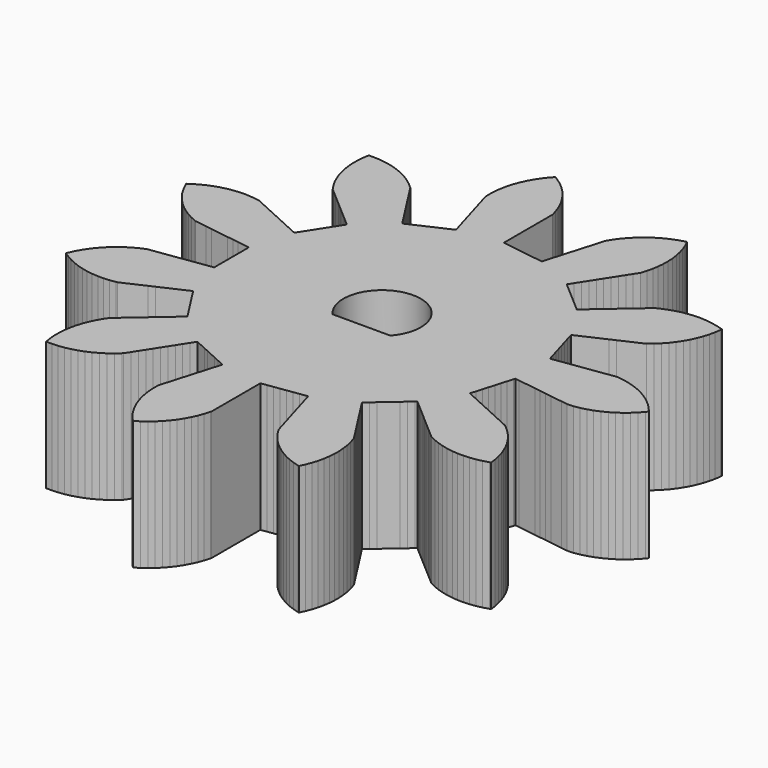
from build123d import *

# Parameters (mm, degrees)
F1_DEPTH = 5


with BuildPart() as f1:
    # F0 (on Top) → F1 (new body)
    with BuildSketch(Plane.XY):
        Polygon((4.187361, -0.908174), (4.207738, -0.838776), (4.363219, -0.861131), (4.59644, -0.894663), (4.829661, -0.928195), (5.062882, -0.961727), (5.296104, -0.995259), (5.529325, -1.028791), (5.762546, -1.062324), (5.995767, -1.095856), (6.228988, -1.129388), (6.46221, -1.16292), (6.708097, -1.155412), (6.93373, -1.114469), (7.155641, -1.056657), (7.362823, -0.989395), (7.574061, -0.900147), (7.77798, -0.795249), (7.965462, -0.684348), (8.152098, -0.551105), (8.328173, -0.40419), (8.486897, -0.255007), (8.639914, -0.084207), (8.709102, 0), (8.560846, 0.174947), (8.39984, 0.338237), (8.238012, 0.484048), (8.055115, 0.622378), (7.862324, 0.746548), (7.67255, 0.85348), (7.463849, 0.94851), (7.248587, 1.027559), (7.040035, 1.090447), (6.815615, 1.137586), (6.588283, 1.167696), (6.53995, 1.174097), (6.306729, 1.140565), (6.073508, 1.107033), (5.840286, 1.073501), (5.607065, 1.039969), (5.373844, 1.006437), (5.140623, 0.972905), (4.907402, 0.939372), (4.67418, 0.90584), (4.440959, 0.872308), (4.207738, 0.838776), (4.143132, 1.058805), (4.078526, 1.278833), (4.013919, 1.498862), (3.949313, 1.718891), (3.884707, 1.938919), (3.820101, 2.158948), (3.755494, 2.378977), (3.735117, 2.448375), (3.949444, 2.546255), (4.163771, 2.644135), (4.378098, 2.742015), (4.592425, 2.839895), (4.806752, 2.937775), (5.021079, 3.035654), (5.235406, 3.133534), (5.449733, 3.231414), (5.66406, 3.329294), (5.878387, 3.427174), (6.054421, 3.574138), (6.218893, 3.733937), (6.365891, 3.894686), (6.505565, 4.076559), (6.631151, 4.268431), (6.739478, 4.457412), (6.836043, 4.665407), (6.916676, 4.880081), (6.981098, 5.088164), (7.029888, 5.312231), (7.061672, 5.539336), (7.068429, 5.58762), (6.849124, 5.654641), (6.625396, 5.704963), (6.410427, 5.740136), (6.181777, 5.757626), (6.072853, 5.761288), (5.843666, 5.753542), (5.615713, 5.728564), (5.40096, 5.692099), (5.179002, 5.634468), (4.962012, 5.560292), (4.760414, 5.477789), (4.608857, 5.402601), (4.430788, 5.248303), (4.252718, 5.094005), (4.074649, 4.939707), (3.89658, 4.785409), (3.71851, 4.631111), (3.540441, 4.476814), (3.362372, 4.322516), (3.184303, 4.168218), (3.006233, 4.01392), (2.828164, 3.859622), (2.654857, 4.009793), (2.481551, 4.159964), (2.308244, 4.310135), (2.134937, 4.460306), (1.96163, 4.610478), (1.788324, 4.760649), (1.615017, 4.91082), (1.560355, 4.958185), (1.68774, 5.1564), (1.815126, 5.354616), (1.942511, 5.552832), (2.069897, 5.751047), (2.197282, 5.949263), (2.324668, 6.147479), (2.452053, 6.345695), (2.579439, 6.54391), (2.706824, 6.742126), (2.83421, 6.940342), (2.902845, 7.159147), (2.954813, 7.382499), (2.991568, 7.597203), (3.010741, 7.825717), (3.012657, 8.055027), (3.001617, 8.272574), (2.970402, 8.499758), (2.922173, 8.723946), (2.86387, 8.933826), (2.783775, 9.148701), (2.687731, 9.356937), (2.667312, 9.40121), (2.446586, 9.339026), (2.231168, 9.260404), (2.031308, 9.173772), (1.829501, 9.064868), (1.636464, 8.94108), (1.460359, 8.812877), (1.28722, 8.662513), (1.125891, 8.499542), (0.98205, 8.335961), (0.845944, 8.151403), (0.724118, 7.957123), (0.698217, 7.915817), (0.631835, 7.689742), (0.565453, 7.463667), (0.499072, 7.237591), (0.43269, 7.011516), (0.366308, 6.785441), (0.299927, 6.559366), (0.233545, 6.333291), (0.167163, 6.107215), (0.100782, 5.88114), (0.0344, 5.655065), (-0.192584, 5.6877), (-0.419567, 5.720336), (-0.646551, 5.752971), (-0.873534, 5.785606), (-1.100518, 5.818242), (-1.327501, 5.850877), (-1.554485, 5.883512), (-1.626077, 5.893806), (-1.626077, 6.129425), (-1.626077, 6.365044), (-1.626077, 6.600664), (-1.626077, 6.836283), (-1.626077, 7.071903), (-1.626077, 7.307522), (-1.626077, 7.543142), (-1.626077, 7.778761), (-1.626077, 8.014381), (-1.626077, 8.25), (-1.686633, 8.471178), (-1.763667, 8.687169), (-1.848824, 8.887661), (-1.956239, 9.090266), (-2.078602, 9.284209), (-2.205504, 9.461253), (-2.354589, 9.635495), (-2.516367, 9.79802), (-2.678884, 9.943062), (-2.862435, 10.080523), (-3.055813, 10.203777), (-3.096926, 10.229982), (-3.248994, 10.058337), (-3.387708, 9.875731), (-3.509004, 9.6948), (-3.619898, 9.494078), (-3.715366, 9.285578), (-3.794202, 9.082517), (-3.858564, 8.862417), (-3.906174, 8.638096), (-3.938742, 8.422717), (-3.953462, 8.193872), (-3.950913, 7.964569), (-3.950371, 7.915817), (-3.883989, 7.689742), (-3.817607, 7.463667), (-3.751226, 7.237591), (-3.684844, 7.011516), (-3.618462, 6.785441), (-3.552081, 6.559366), (-3.485699, 6.333291), (-3.419317, 6.107215), (-3.352936, 5.88114), (-3.286554, 5.655065), (-3.495149, 5.559803), (-3.703743, 5.464541), (-3.912338, 5.369279), (-4.120933, 5.274017), (-4.329527, 5.178755), (-4.538122, 5.083493), (-4.746717, 4.988231), (-4.812509, 4.958185), (-4.939894, 5.1564), (-5.06728, 5.354616), (-5.194665, 5.552832), (-5.322051, 5.751047), (-5.449436, 5.949263), (-5.576822, 6.147479), (-5.704207, 6.345695), (-5.831593, 6.54391), (-5.958978, 6.742126), (-6.086364, 6.940342), (-6.256884, 7.093669), (-6.438463, 7.233725), (-6.618496, 7.35635), (-6.818396, 7.468719), (-7.026187, 7.56572), (-7.228662, 7.64605), (-7.448282, 7.712031), (-7.672246, 7.761292), (-7.88738, 7.795445), (-8.11611, 7.81185), (-8.22505, 7.814996), (-8.39418, 7.810807), (-8.429309, 7.584196), (-8.447279, 7.355584), (-8.451501, 7.137797), (-8.436272, 6.908986), (-8.403861, 6.68197), (-8.3604, 6.468523), (-8.295549, 6.248566), (-8.214324, 6.034115), (-8.125279, 5.83532), (-8.013939, 5.634845), (-7.887824, 5.443321), (-7.861011, 5.402601), (-7.682942, 5.248303), (-7.504872, 5.094005), (-7.326803, 4.939707), (-7.148734, 4.785409), (-6.970664, 4.631111), (-6.792595, 4.476814), (-6.614526, 4.322516), (-6.436457, 4.168218), (-6.258387, 4.01392), (-6.080318, 3.859622), (-6.204297, 3.666707), (-6.328275, 3.473793), (-6.452253, 3.280879), (-6.576232, 3.087965), (-6.70021, 2.89505), (-6.824189, 2.702136), (-6.948167, 2.509222), (-6.987271, 2.448375), (-7.201598, 2.546255), (-7.415925, 2.644135), (-7.630252, 2.742015), (-7.844579, 2.839895), (-8.058906, 2.937775), (-8.273233, 3.035654), (-8.48756, 3.133534), (-8.701887, 3.231414), (-8.916214, 3.329294), (-9.130541, 3.427174), (-9.356887, 3.463971), (-9.585361, 3.483624), (-9.718512, 3.489791), (-9.947716, 3.482554), (-10.175724, 3.458084), (-10.390558, 3.422096), (-10.612643, 3.364959), (-10.829797, 3.291266), (-11.031579, 3.209211), (-11.235816, 3.104934), (-11.431624, 2.985578), (-11.542609, 2.911756), (-11.449646, 2.702127), (-11.341166, 2.500091), (-11.226973, 2.314595), (-11.090457, 2.13034), (-10.940458, 1.956884), (-10.788497, 1.800818), (-10.615024, 1.65084), (-10.430752, 1.514346), (-10.248365, 1.395249), (-10.046316, 1.286794), (-9.836675, 1.193857), (-9.792104, 1.174097), (-9.558883, 1.140565), (-9.325662, 1.107033), (-9.09244, 1.073501), (-8.859219, 1.039969), (-8.625998, 1.006437), (-8.392777, 0.972905), (-8.159556, 0.939372), (-7.926334, 0.90584), (-7.693113, 0.872308), (-7.459892, 0.838776), (-7.459892, 0.609458), (-7.459892, 0.380141), (-7.459892, 0.150823), (-7.459892, -0.078495), (-7.459892, -0.307812), (-7.459892, -0.53713), (-7.459892, -0.766448), (-7.459892, -0.838776), (-7.693113, -0.872308), (-7.926334, -0.90584), (-8.159556, -0.939372), (-8.392777, -0.972905), (-8.625998, -1.006437), (-8.859219, -1.039969), (-9.09244, -1.073501), (-9.325662, -1.107033), (-9.558883, -1.140565), (-9.792104, -1.174097), (-10.002412, -1.265514), (-10.205242, -1.372503), (-10.391574, -1.485326), (-10.57683, -1.620481), (-10.751385, -1.769199), (-10.908567, -1.920006), (-11.059819, -2.092371), (-11.197666, -2.275632), (-11.318102, -2.457136), (-11.428043, -2.658381), (-11.522522, -2.867332), (-11.542609, -2.911756), (-11.351069, -3.037848), (-11.150581, -3.149164), (-10.954229, -3.243475), (-10.739769, -3.324675), (-10.519804, -3.389499), (-10.307591, -3.438634), (-10.080571, -3.471017), (-9.851758, -3.486218), (-9.633936, -3.487803), (-9.405326, -3.469805), (-9.178719, -3.434648), (-9.130541, -3.427174), (-8.916214, -3.329294), (-8.701887, -3.231414), (-8.48756, -3.133534), (-8.273233, -3.035654), (-8.058906, -2.937775), (-7.844579, -2.839895), (-7.630252, -2.742015), (-7.415925, -2.644135), (-7.201598, -2.546255), (-6.987271, -2.448375), (-6.863293, -2.64129), (-6.739314, -2.834204), (-6.615336, -3.027118), (-6.491357, -3.220033), (-6.367379, -3.412947), (-6.2434, -3.605861), (-6.119422, -3.798775), (-6.080318, -3.859622), (-6.258387, -4.01392), (-6.436457, -4.168218), (-6.614526, -4.322516), (-6.792595, -4.476814), (-6.970664, -4.631111), (-7.148734, -4.785409), (-7.326803, -4.939707), (-7.504872, -5.094005), (-7.682942, -5.248303), (-7.861011, -5.402601), (-7.98851, -5.593207), (-8.101299, -5.79287), (-8.197055, -5.988521), (-8.279831, -6.202378), (-8.346273, -6.421859), (-8.39697, -6.633705), (-8.431025, -6.86048), (-8.447911, -7.089175), (-8.4511, -7.306979), (-8.434786, -7.535716), (-8.4013, -7.762575), (-8.39418, -7.810807), (-8.164876, -7.813329), (-7.936033, -7.798581), (-7.719863, -7.771765), (-7.495548, -7.724128), (-7.275455, -7.65974), (-7.070365, -7.586344), (-6.861877, -7.49085), (-6.661168, -7.379932), (-6.477069, -7.263502), (-6.29448, -7.124765), (-6.122853, -6.972677), (-6.086364, -6.940342), (-5.958978, -6.742126), (-5.831593, -6.54391), (-5.704207, -6.345695), (-5.576822, -6.147479), (-5.449436, -5.949263), (-5.322051, -5.751047), (-5.194665, -5.552832), (-5.06728, -5.354616), (-4.939894, -5.1564), (-4.812509, -4.958185), (-4.603914, -5.053447), (-4.395319, -5.148709), (-4.186725, -5.243971), (-3.97813, -5.339233), (-3.769535, -5.434495), (-3.560941, -5.529757), (-3.352346, -5.625019), (-3.286554, -5.655065), (-3.352936, -5.88114), (-3.419317, -6.107215), (-3.485699, -6.333291), (-3.552081, -6.559366), (-3.618462, -6.785441), (-3.684844, -7.011516), (-3.751226, -7.237591), (-3.817607, -7.463667), (-3.883989, -7.689742), (-3.950371, -7.915817), (-3.954581, -8.145096), (-3.941519, -8.374041), (-3.916296, -8.590404), (-3.870312, -8.815063), (-3.807547, -9.035624), (-3.735663, -9.241249), (-3.641708, -9.450435), (-3.532271, -9.651955), (-3.4172, -9.836908), (-3.279812, -10.020513), (-3.128992, -10.193256), (-3.096926, -10.229982), (-2.902661, -10.108132), (-2.718119, -9.972004), (-2.550762, -9.832574), (-2.387811, -9.671225), (-2.237468, -9.498067), (-2.104617, -9.325443), (-1.980853, -9.132391), (-1.871973, -8.93057), (-1.780045, -8.733091), (-1.701448, -8.517663), (-1.639292, -8.29693), (-1.626077, -8.25), (-1.626077, -8.014381), (-1.626077, -7.778761), (-1.626077, -7.543142), (-1.626077, -7.307522), (-1.626077, -7.071903), (-1.626077, -6.836283), (-1.626077, -6.600664), (-1.626077, -6.365044), (-1.626077, -6.129425), (-1.626077, -5.893806), (-1.399093, -5.86117), (-1.17211, -5.828535), (-0.945126, -5.7959), (-0.718143, -5.763264), (-0.491159, -5.730629), (-0.264176, -5.697994), (-0.037192, -5.665358), (0.0344, -5.655065), (0.100782, -5.88114), (0.167163, -6.107215), (0.233545, -6.333291), (0.299927, -6.559366), (0.366308, -6.785441), (0.43269, -7.011516), (0.499072, -7.237591), (0.565453, -7.463667), (0.631835, -7.689742), (0.698217, -7.915817), (0.818632, -8.110975), (0.953398, -8.296514), (1.091591, -8.464893), (1.251735, -8.629029), (1.423781, -8.780642), (1.595422, -8.914762), (1.787558, -9.039944), (1.988571, -9.150308), (2.185368, -9.243688), (2.400211, -9.323869), (2.620481, -9.38765), (2.667312, -9.40121), (2.764861, -9.193675), (2.846511, -8.979386), (2.911919, -8.77161), (2.961771, -8.547777), (2.994631, -8.320826), (3.013065, -8.10378), (3.01281, -7.874462), (2.995293, -7.645815), (2.965862, -7.429985), (2.915513, -7.206263), (2.848465, -6.986966), (2.83421, -6.940342), (2.706824, -6.742126), (2.579439, -6.54391), (2.452053, -6.345695), (2.324668, -6.147479), (2.197282, -5.949263), (2.069897, -5.751047), (1.942511, -5.552832), (1.815126, -5.354616), (1.68774, -5.1564), (1.560355, -4.958185), (1.733662, -4.808014), (1.906968, -4.657842), (2.080275, -4.507671), (2.253582, -4.3575), (2.426889, -4.207329), (2.600195, -4.057158), (2.773502, -3.906987), (2.828164, -3.859622), (3.006233, -4.01392), (3.184303, -4.168218), (3.362372, -4.322516), (3.540441, -4.476814), (3.71851, -4.631111), (3.89658, -4.785409), (4.074649, -4.939707), (4.252718, -5.094005), (4.430788, -5.248303), (4.608857, -5.402601), (4.815668, -5.501677), (5.02935, -5.584902), (5.236638, -5.651839), (5.460098, -5.703338), (5.686801, -5.737869), (5.903705, -5.757901), (6.133018, -5.759335), (6.361789, -5.743502), (6.577829, -5.715662), (6.801916, -5.666962), (7.021701, -5.601531), (7.068429, -5.58762), (7.038291, -5.360291), (6.991126, -5.135876), (6.933819, -4.925722), (6.854743, -4.71047), (6.759688, -4.501781), (6.657852, -4.309224), (6.533659, -4.116448), (6.395306, -3.933568), (6.253861, -3.767911), (6.090551, -3.606925), (5.915586, -3.45869), (5.878387, -3.427174), (5.66406, -3.329294), (5.449733, -3.231414), (5.235406, -3.133534), (5.021079, -3.035654), (4.806752, -2.937775), (4.592425, -2.839895), (4.378098, -2.742015), (4.163771, -2.644135), (3.949444, -2.546255), (3.735117, -2.448375), (3.799723, -2.228347), (3.86433, -2.008318), (3.928936, -1.788289), (3.993542, -1.568261), (4.058148, -1.348232), (4.122755, -1.128203), align=None)
        with BuildLine():
            ThreePointArc((-0.508043, -1), (-1.626077, -1.5), (-2.744111, -1))
            ThreePointArc((-2.744111, -1), (-2.16131, 1.401259), (-0.126077, 0))
            ThreePointArc((-0.126077, 0), (-0.224818, -0.535233), (-0.508043, -1))
        make_face(mode=Mode.SUBTRACT)
        with BuildLine():
            Line((-0.508043, -1), (-2.744111, -1))
            ThreePointArc((-2.744111, -1), (-1.626077, -1.5), (-0.508043, -1))
        make_face()
    extrude(amount=F1_DEPTH)


solid = f1.part
